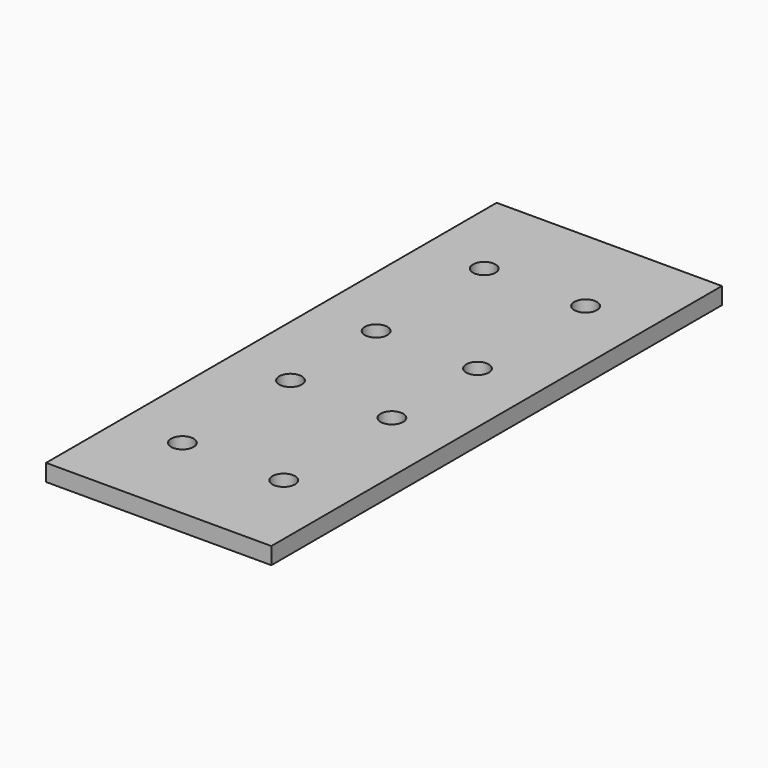
from build123d import *

# Parameters (mm, degrees)
F0_W     = 40
F0_H     = 100
F1_DEPTH = 1.5
F2_R     = 2
F3_DEPTH = 3.001


with BuildPart() as f1:
    # F0 (on Top) → F1 (new body, symmetric)
    with BuildSketch(Plane.XY):
        Rectangle(F0_W, F0_H)
    extrude(amount=F1_DEPTH, both=True)

    # F2 (on face) → F3 (cut, through all)
    with BuildSketch(Plane.XY.offset(1.5)):
        with Locations((-9, 33.5)):
            Circle(F2_R)
        with Locations((9, 33.5)):
            Circle(F2_R)
        with Locations((-9, 9.5)):
            Circle(F2_R)
        with Locations((9, 9.5)):
            Circle(F2_R)
        with Locations((-9, -9.5)):
            Circle(F2_R)
        with Locations((9, -9.5)):
            Circle(F2_R)
        with Locations((-9, -33.5)):
            Circle(F2_R)
        with Locations((9, -33.5)):
            Circle(F2_R)
    extrude(amount=-F3_DEPTH, mode=Mode.SUBTRACT)


solid = f1.part
